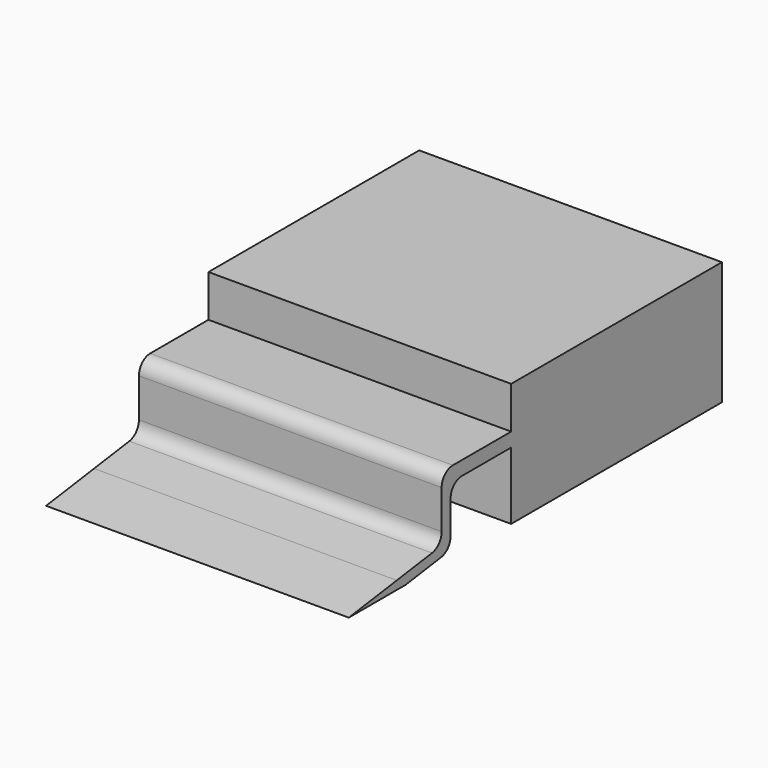
from build123d import *

# Parameters (mm, degrees)
F0_W     = 10.8
F0_H     = 9.4
F1_DEPTH = 4.4
F3_DEPTH = 10.8
F4_R     = 0.5


with BuildPart() as f1:
    # F0 (on Top) → F1 (new body)
    with BuildSketch(Plane.XY):
        Rectangle(F0_W, F0_H)
    extrude(amount=F1_DEPTH)

    # F2 (on face) → F3 (join, through all)
    with BuildSketch(Plane(origin=(-5.4, 0, 0), x_dir=(0, -1, 0), z_dir=(-1, 0, 0))):
        Polygon((7.799318, 2.9), (4.7, 2.9), (4.7, 2.4), (7.4, 2.4), (7.799318, 2.4), align=None)
        Polygon((7.799318, 0.581989), (7.799318, 2.4), (7.4, 2.4), (7.4, 0.281082), align=None)
        Polygon((9.799318, 0.300908), (7.799318, 0.581989), (7.4, 0.281082), (9.4, 0), align=None)
        Polygon((11.940386, 0), (9.799318, 0.300908), (9.4, 0), align=None)
    extrude(amount=-F3_DEPTH)

    # F4
    f4_edges = [f1.edges().sort_by_distance(p)[0] for p in [
        (0, -7.799318, 2.9),
        (0, -7.4, 2.4),
        (0, -7.4, 0.281082),
        (0, -7.799318, 0.581989),
    ]]
    fillet(f4_edges, radius=F4_R)


solid = f1.part
